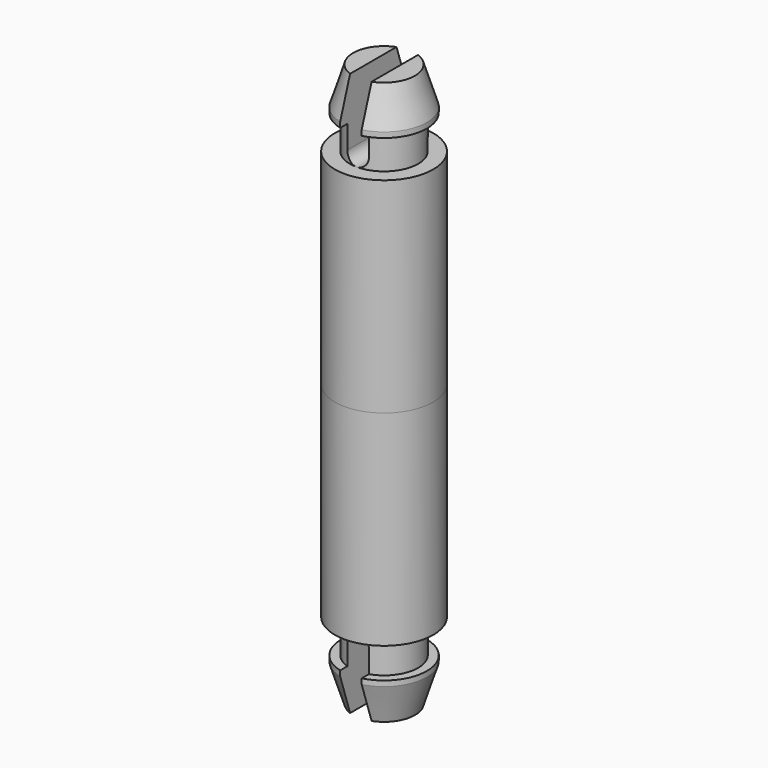
from build123d import *

# Parameters (mm, degrees)
F0_R           = 2.286
F1_DEPTH       = 9.525
F3_R           = 1.5875
F4_DEPTH       = 1.5748
F6_R           = 1.9875
F8_DEPTH       = 0.25
F9_R           = 1.4375
F8_FACE_R      = 1.9875
F12_DEPTH      = 2.287
F12_DEPTH_BACK = 2.287


with BuildPart() as f1:
    # F0 (on Top) → F1 (new body)
    with BuildSketch(Plane.XY):
        Circle(F0_R)
    extrude(amount=F1_DEPTH)

    # F3 (on offset) → F4 (join)
    with BuildSketch(Plane.XY.offset(9.525)):
        Circle(F3_R)
    extrude(amount=F4_DEPTH)

    # F6 (on offset) → F8 (join)
    with BuildSketch(Plane.XY.offset(11.0998)):
        Circle(F6_R)
    extrude(amount=F8_DEPTH)

    # F9 (on offset) → F10 section 0
    with BuildSketch(Plane.XY.offset(13.081)):
        Circle(F9_R)
    # F8_face (on face) → F10 section 1
    with BuildSketch(Plane.XY.offset(11.3498)):
        Circle(F8_FACE_R)
    loft()

    # F11 (on Front) → F12 (cut, two sides)
    with BuildSketch(Plane.XZ) as f12_sk:
        with BuildLine():
            Line((0.5, 13.081), (-0.5, 13.081))
            Line((-0.5, 13.081), (-0.5, 10.025))
            ThreePointArc((-0.5, 10.025), (-0.3535533906, 9.6714466094), (0, 9.525))
            ThreePointArc((0, 9.525), (0.3535533906, 9.6714466094), (0.5, 10.025))
            Line((0.5, 10.025), (0.5, 13.081))
        make_face()
    extrude(amount=-F12_DEPTH, mode=Mode.SUBTRACT)
    extrude(f12_sk.sketch, amount=F12_DEPTH_BACK, mode=Mode.SUBTRACT)

    # F13: F1 across plane


with BuildPart() as f1_1:
    add(f1.part)
    add(f1.part.mirror(Plane.XY))


solid = f1_1.part
